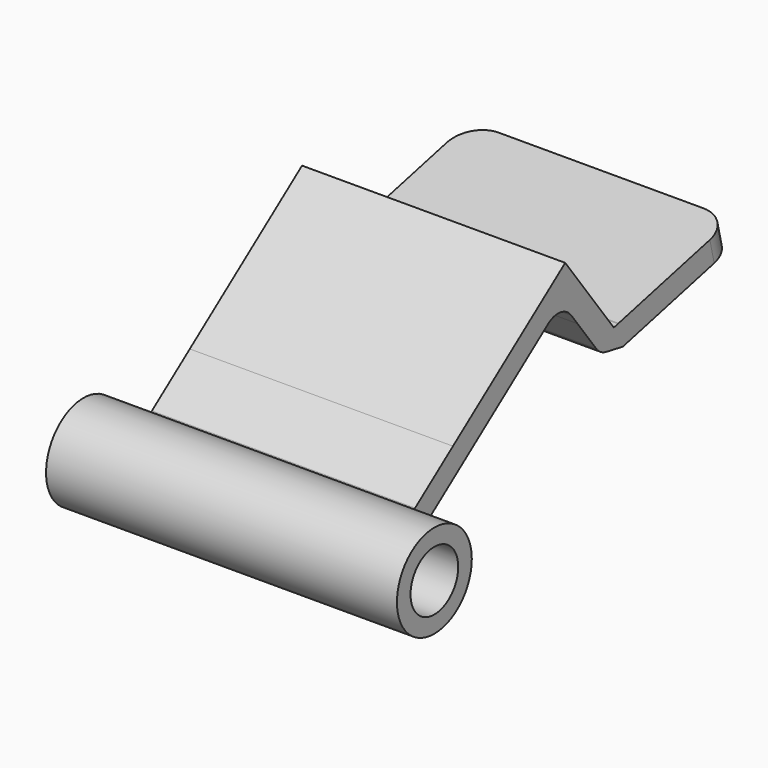
from build123d import *

# Parameters (mm, degrees)
F0_R     = 5.1
F1_DEPTH = 30
F2_DEPTH = 22.5
F3_R     = 5


with BuildPart() as f1:
    # F0 (on Right) → F1 (new body, symmetric)
    with BuildSketch(Plane.YZ):
        with BuildLine():
            ThreePointArc((24.8170878902, -397.7473182194), (23.8345837656, -395.9821311786), (22.4412201864, -394.5193469909))
            ThreePointArc((22.4412201864, -394.5193469909), (10.1667790366, -404.1596589088), (25.391624, -400.724311))
            ThreePointArc((25.391624, -400.724311), (25.2466768681, -399.2083477949), (24.8170878902, -397.7473182194))
        make_face()
        with Locations((17.391624, -400.724311)):
            Circle(F0_R, mode=Mode.SUBTRACT)
    extrude(amount=F1_DEPTH, both=True)

    # F0 (on Right) → F2 (join, symmetric)
    with BuildSketch(Plane.YZ):
        with BuildLine():
            Line((41.6709488454, -385.2116712139), (30.7416916961, -388.3455854761))
            Line((30.7416916961, -388.3455854761), (22.637896, -394.373063))
            Line((22.637896, -394.373063), (22.936297, -394.774257))
            ThreePointArc((22.936297, -394.774257), (25.2411173155, -396.1514104487), (27.8446650687, -395.4954474882))
            Line((27.8446650687, -395.4954474882), (41.6709488454, -385.2116712139))
        make_face()
        with BuildLine():
            Line((57.3466358684, -380.7167399976), (61.4554451408, -379.5385578207))
            Line((61.4554451408, -379.5385578207), (54.733396, -370.500928))
            Line((54.733396, -370.500928), (30.7416916961, -388.3455854761))
            Line((30.7416916961, -388.3455854761), (41.6709488454, -385.2116712139))
            Line((41.6709488454, -385.2116712139), (51.1139020687, -378.1881484882))
            ThreePointArc((51.1139020687, -378.1881484882), (53.7055684242, -377.5351807229), (55.999871, -378.906048))
            Line((55.999871, -378.906048), (57.3466358684, -380.7167399976))
        make_face()
        with BuildLine():
            Line((65.1262132866, -384.4738153538), (61.4554451408, -379.5385578207))
            Line((61.4554451408, -379.5385578207), (57.3466358684, -380.7167399976))
            Line((57.3466358684, -380.7167399976), (61.371102, -386.127535))
            ThreePointArc((61.371102, -386.127535), (62.3300853011, -387.0102243008), (63.5455334662, -387.4808357451))
            ThreePointArc((63.5455334662, -387.4808357451), (64.9729225904, -387.4475961696), (66.26827, -386.84708))
            Line((66.26827, -386.84708), (66.669464, -386.548678))
            Line((66.669464, -386.548678), (65.1262132866, -384.4738153538))
        make_face()
        Polygon((66.132787, -384.235166), (66.6175101107, -386.2796280266), (67.1738194665, -388.0992339037), (91.437887, -382.346447), (90.515105, -378.454343), align=None)
        with BuildLine():
            Line((66.001939903, -384.2661886412), (65.1262132866, -384.4738153538))
            Line((65.1262132866, -384.4738153538), (66.669464, -386.548678))
            Line((66.669464, -386.548678), (66.26827, -386.84708))
            ThreePointArc((66.26827, -386.84708), (64.9729225904, -387.4475961696), (63.5455334662, -387.4808357451))
            Line((63.5455334662, -387.4808357451), (67.055569, -388.12727))
            Line((67.055569, -388.12727), (66.6175101107, -386.2796280266))
            Line((66.6175101107, -386.2796280266), (66.001939903, -384.2661886412))
        make_face()
        Polygon((66.132787, -384.235166), (66.001939903, -384.2661886412), (66.6175101107, -386.2796280266), align=None)
        Polygon((67.1738194665, -388.0992339037), (66.6175101107, -386.2796280266), (67.055569, -388.12727), align=None)
        with BuildLine():
            Line((22.936297, -394.774257), (22.637896, -394.373063))
            Line((22.637896, -394.373063), (22.4412201864, -394.5193469909))
            ThreePointArc((22.4412201864, -394.5193469909), (23.8345837656, -395.9821311786), (24.8170878902, -397.7473182194))
            Line((24.8170878902, -397.7473182194), (27.8446650687, -395.4954474882))
            ThreePointArc((27.8446650687, -395.4954474882), (25.2411173155, -396.1514104487), (22.936297, -394.774257))
        make_face()
    extrude(amount=F2_DEPTH, both=True)

    # F3
    f3_edges = [f1.edges().sort_by_distance(p)[0] for p in [
        (22.5, 90.976496, -380.400395),
        (-22.5, 90.976496, -380.400395),
    ]]
    fillet(f3_edges, radius=F3_R)


solid = f1.part
